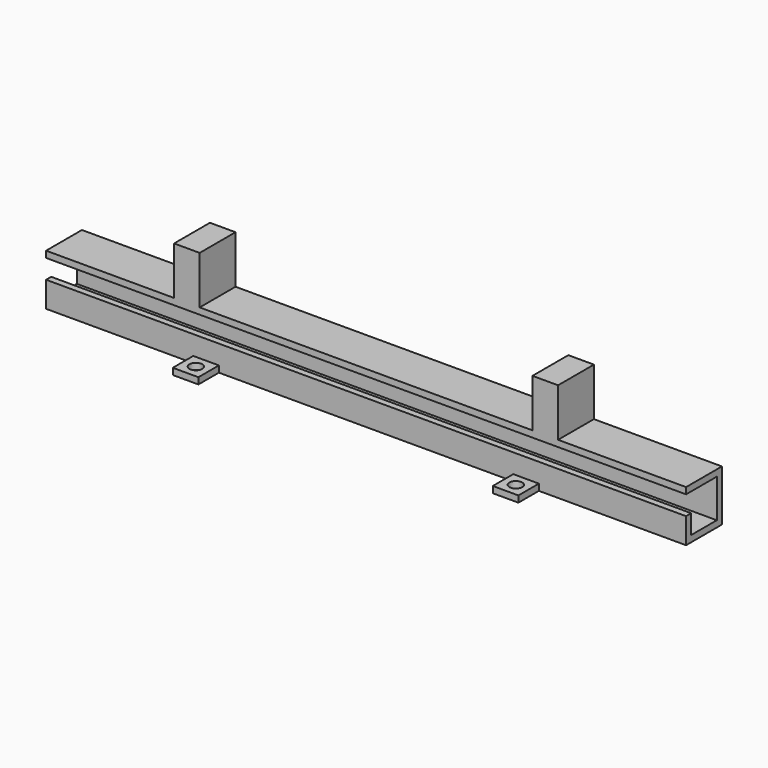
from build123d import *

# Parameters (mm, degrees)
F0_W     = 203.2
F0_H     = 203.2
F0_R     = 50.8
F0_H_2   = 355.6
F0_W_2   = 2336.8
F0_W_3   = 1168.4
F1_DEPTH = 50.8
F2_DEPTH = 406.4
F3_W     = 50.8
F3_H     = 152.4
F4_DEPTH = 5963.92
F5_W     = 203.2
F5_H     = 177.8
F6_DEPTH = 381


with BuildPart() as f1:
    # F0 (on Top) → F1 (new body)
    with BuildSketch(Plane.XY):
        with Locations((-1270, 279.4)):
            Rectangle(F0_W, F0_H)
        with Locations((-1270, 279.4)):
            Circle(F0_R, mode=Mode.SUBTRACT)
        with Locations((-1270, -279.4)):
            Rectangle(F0_W, F0_H)
        with Locations((-1270, -279.4)):
            Circle(F0_R, mode=Mode.SUBTRACT)
        with Locations((-1270, 0)):
            Rectangle(F0_W, F0_H_2)
        Rectangle(F0_W_2, F0_H_2)
        with Locations((-1955.8, 0)):
            Rectangle(F0_W_3, F0_H_2)
        with Locations((1955.8, 0)):
            Rectangle(F0_W_3, F0_H_2)
        with Locations((1270, 0)):
            Rectangle(F0_W, F0_H_2)
        with Locations((1270, 279.4)):
            Rectangle(F0_W, F0_H)
        with Locations((1270, 279.4)):
            Circle(F0_R, mode=Mode.SUBTRACT)
        with Locations((1270, -279.4)):
            Rectangle(F0_W, F0_H)
        with Locations((1270, -279.4)):
            Circle(F0_R, mode=Mode.SUBTRACT)
    extrude(amount=F1_DEPTH)

    # F0 (on Top) → F2 (join)
    with BuildSketch(Plane.XY):
        Rectangle(F0_W_2, F0_H_2)
        with Locations((1955.8, 0)):
            Rectangle(F0_W_3, F0_H_2)
        with Locations((-1955.8, 0)):
            Rectangle(F0_W_3, F0_H_2)
        with Locations((-1270, 0)):
            Rectangle(F0_W, F0_H_2)
        with Locations((1270, 0)):
            Rectangle(F0_W, F0_H_2)
    extrude(amount=F2_DEPTH)

    # F3 (on face) → F4 (cut)
    with BuildSketch(Plane(origin=(-2540, 0, 0), x_dir=(0, -1, 0), z_dir=(-1, 0, 0))):
        Polygon((-127, 355.6), (-127, 50.8), (127, 50.8), (127, 203.2), (127, 355.6), align=None)
        with Locations((203.2, 279.4)):
            Rectangle(F3_W, F3_H)
        with Locations((152.4, 279.4)):
            Rectangle(F3_W, F3_H)
    extrude(amount=-F4_DEPTH, mode=Mode.SUBTRACT)

    # F5 (on face) → F6 (join)
    with BuildSketch(Plane.XY.offset(406.4)):
        with Locations((1422.4, 88.9)):
            Rectangle(F5_W, F5_H)
        with Locations((1422.4, -88.9)):
            Rectangle(F5_W, F5_H)
        with Locations((-1422.4, -88.9)):
            Rectangle(F5_W, F5_H)
        with Locations((-1422.4, 88.9)):
            Rectangle(F5_W, F5_H)
    extrude(amount=F6_DEPTH)


solid = f1.part
